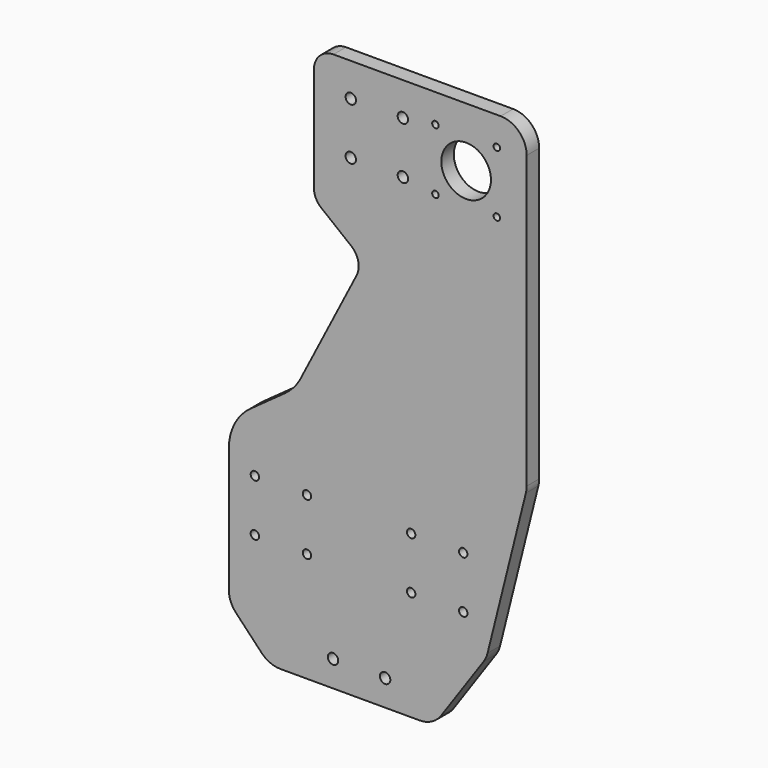
from build123d import *

# Parameters (mm, degrees)
F0_R     = 3.24
F0_R_2   = 4
F0_R_3   = 2.5
F0_R_4   = 19.05
F1_DEPTH = 12


with BuildPart() as f1:
    # F0 (on Front) → F1 (new body)
    with BuildSketch(Plane.XZ):
        with BuildLine():
            Line((115.360413, 205), (85.230881, 205))
            Line((85.230881, 205), (25.307446, 205))
            Line((25.307446, 205), (10.35451, 205))
            Line((10.35451, 205), (-13.005401, 205))
            ThreePointArc((-13.005401, 205), (-23.612002, 200.606602), (-28.005401, 190))
            Line((-28.005401, 190), (-28.005401, 109.950632))
            ThreePointArc((-28.005401, 109.950632), (-26.512058, 103.426047), (-22.329373, 98.200588))
            Line((-22.329373, 98.200588), (0.71038, 79.917932))
            ThreePointArc((0.71038, 79.917932), (6.048265, 71.334896), (4.728917, 61.313876))
            Line((4.728917, 61.313876), (3.96887, 59.834316))
            Line((3.96887, 59.834316), (-38.591597, -23.016931))
            ThreePointArc((-38.591597, -23.016931), (-38.770861, -23.355207), (-38.9587, -23.688798))
            ThreePointArc((-38.9587, -23.688798), (-43.914723, -30.474407), (-50.178959, -36.074945))
            Line((-50.178959, -36.074945), (-76.728162, -55.201096))
            ThreePointArc((-76.728162, -55.201096), (-88.787778, -69.109681), (-93.341041, -86.946466))
            Line((-93.341041, -86.946466), (-93.341041, -135.075137))
            Line((-93.341041, -135.075137), (-93.341041, -183.041223))
            ThreePointArc((-93.341041, -183.041223), (-91.911264, -190.467313), (-87.826359, -196.831639))
            Line((-87.826359, -196.831639), (-68.18331, -217.464505))
            ThreePointArc((-68.18331, -217.464505), (-61.578084, -222.056258), (-53.697992, -223.674089))
            Line((-53.697992, -223.674089), (53.22585, -223.674089))
            ThreePointArc((53.22585, -223.674089), (62.510458, -221.388378), (69.672873, -215.053695))
            Line((69.672873, -215.053695), (102.386198, -167.7729))
            ThreePointArc((102.386198, -167.7729), (104.160024, -164.639544), (105.343296, -161.238918))
            Line((105.343296, -161.238918), (134.764535, -43.422655))
            ThreePointArc((134.764535, -43.422655), (135.210885, -41.018094), (135.360413, -38.577032))
            Line((135.360413, -38.577032), (135.360413, 185))
            ThreePointArc((135.360413, 185), (129.502549, 199.142136), (115.360413, 205))
        make_face()
        with Locations((-73.341041, -139.456751)):
            Circle(F0_R, mode=Mode.SUBTRACT)
        with Locations((-13.341041, -203.674089)):
            Circle(F0_R_2, mode=Mode.SUBTRACT)
        with Locations((-33.341041, -139.456751)):
            Circle(F0_R, mode=Mode.SUBTRACT)
        with Locations((-73.341041, -99.456751)):
            Circle(F0_R, mode=Mode.SUBTRACT)
        with Locations((-33.341041, -99.456751)):
            Circle(F0_R, mode=Mode.SUBTRACT)
        with Locations((26.658959, -203.674089)):
            Circle(F0_R_2, mode=Mode.SUBTRACT)
        with Locations((46.658959, -139.456751)):
            Circle(F0_R, mode=Mode.SUBTRACT)
        with Locations((86.658959, -139.456751)):
            Circle(F0_R, mode=Mode.SUBTRACT)
        with Locations((46.658959, -99.456751)):
            Circle(F0_R, mode=Mode.SUBTRACT)
        with Locations((86.658959, -99.456751)):
            Circle(F0_R, mode=Mode.SUBTRACT)
        with Locations((0.307446, 139.456751)):
            Circle(F0_R_2, mode=Mode.SUBTRACT)
        with Locations((0.307446, 179.456751)):
            Circle(F0_R_2, mode=Mode.SUBTRACT)
        with Locations((40.307446, 139.456751)):
            Circle(F0_R_2, mode=Mode.SUBTRACT)
        with Locations((65.307446, 135.886751)):
            Circle(F0_R_3, mode=Mode.SUBTRACT)
        with Locations((40.307446, 179.456751)):
            Circle(F0_R_2, mode=Mode.SUBTRACT)
        with Locations((65.307446, 183.026751)):
            Circle(F0_R_3, mode=Mode.SUBTRACT)
        with Locations((112.447446, 135.886751)):
            Circle(F0_R_3, mode=Mode.SUBTRACT)
        with Locations((88.877446, 159.456751)):
            Circle(F0_R_4, mode=Mode.SUBTRACT)
        with Locations((112.447446, 183.026751)):
            Circle(F0_R_3, mode=Mode.SUBTRACT)
    extrude(amount=F1_DEPTH)


solid = f1.part
